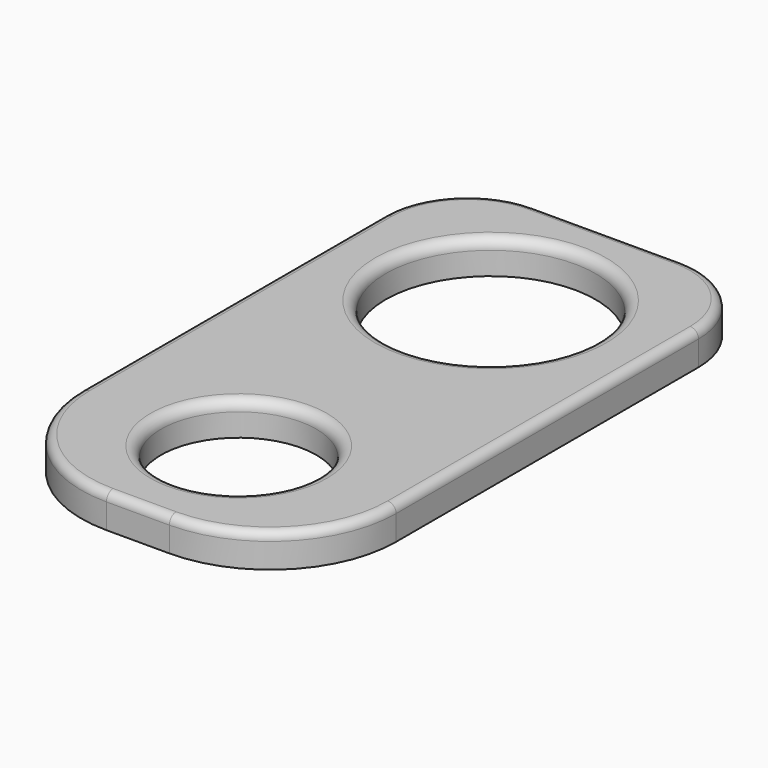
from build123d import *

# Parameters (mm, degrees)
F0_R     = 18.5
F1_DEPTH = 8
F2_R     = 30
F3_R     = 2.5
F4_R     = 20
F5_R     = 2
F6_SIZE2 = 0.0727940469
F6_SIZE  = 0.2


with BuildPart() as f1:
    # F0 (on Top) → F1 (new body)
    with BuildSketch(Plane.XY):
        with BuildLine():
            Line((0, 105), (0, 0))
            Line((0, 0), (75, 0))
            Line((75, 0), (75, 105))
            Line((75, 105), (62.5, 105))
            ThreePointArc((62.5, 105), (37.5, 80), (12.5, 105))
            Line((12.5, 105), (0, 105))
        make_face()
        with Locations((37.5, 30)):
            Circle(F0_R, mode=Mode.SUBTRACT)
        with BuildLine():
            Line((0, 140), (0, 105))
            Line((0, 105), (12.5, 105))
            ThreePointArc((12.5, 105), (37.5, 130), (62.5, 105))
            Line((62.5, 105), (75, 105))
            Line((75, 105), (75, 140))
            Line((75, 140), (0, 140))
        make_face()
    extrude(amount=F1_DEPTH)

    # F2
    f2_edges = [f1.edges().sort_by_distance(p)[0] for p in [
        (75, 0, 4),
        (0, 0, 4),
    ]]
    fillet(f2_edges, radius=F2_R)

    # F3
    f3_edges = [f1.edges().sort_by_distance(p)[0] for p in [
        (62.5, 105, 8),
        (19, 30, 8),
    ]]
    fillet(f3_edges, radius=F3_R)

    # F4
    f4_edges = [f1.edges().sort_by_distance(p)[0] for p in [
        (0, 140, 4),
        (75, 140, 4),
    ]]
    fillet(f4_edges, radius=F4_R)

    # F5
    f5_edges = [f1.edges().sort_by_distance(p)[0] for p in [
        (69.142136, 134.142136, 8),
        (37.5, 140, 8),
        (5.857864, 134.142136, 8),
        (0, 75, 8),
        (75, 75, 8),
        (66.213203, 8.786797, 8),
        (37.5, 0, 8),
        (8.786797, 8.786797, 8),
    ]]
    fillet(f5_edges, radius=F5_R)

    # F6
    f6_edges = [f1.edges().sort_by_distance(p)[0] for p in [
        (0, 75, 0),
        (5.857864, 134.142136, 0),
        (8.786797, 8.786797, 0),
        (37.5, 140, 0),
        (37.5, 0, 0),
        (69.142136, 134.142136, 0),
        (66.213203, 8.786797, 0),
        (75, 75, 0),
        (62.5, 105, 0),
        (19, 30, 0),
    ]]
    f6_side = f1.faces().sort_by_distance((37.5, 68.187347, 0))[0]
    chamfer(f6_edges, length=F6_SIZE, length2=F6_SIZE2, reference=f6_side)


solid = f1.part
